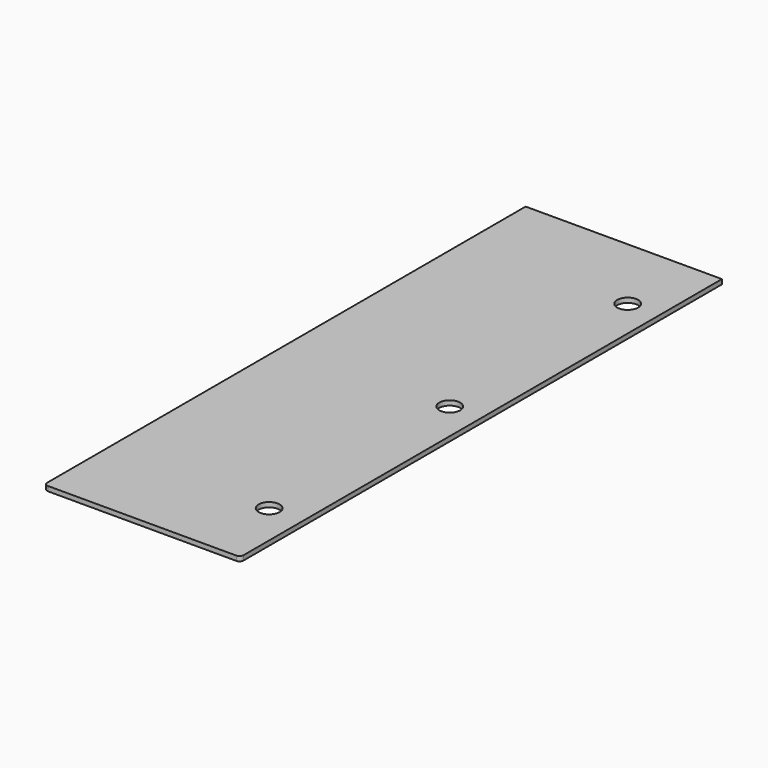
from build123d import *

# Parameters (mm, degrees)
F0_W     = 750
F0_H     = 2300
F1_DEPTH = 18
F2_R     = 15
F4_D     = 8
F4_DEPTH = 15
F4_TIP   = 2.4034424761
F5_R     = 40
F6_DEPTH = 18


with BuildPart() as f1:
    # F0 (on Top) → F1 (new body)
    with BuildSketch(Plane.XY):
        with Locations((375, -1150)):
            Rectangle(F0_W, F0_H)
    extrude(amount=F1_DEPTH)

    # F2
    f2_edges = [f1.edges().sort_by_distance(p)[0] for p in [
        (0, -2300, 9),
        (750, -2300, 9),
    ]]
    fillet(f2_edges, radius=F2_R)

    # F4
    with Locations(Plane(origin=(0, 0, 0), x_dir=(1, 0, 0), z_dir=(0, 0, -1))):
        with Locations((500, 100), (250, 100), (500, 2200), (500, 2100), (250, 2200), (250, 2100), (250, 1850), (500, 1850), (250, 1600), (500, 1600), (500, 1350), (250, 1350), (500, 1100), (250, 1100), (500, 850), (250, 850), (250, 600), (500, 600), (500, 350), (250, 350), (375, 100), (375, 350), (375, 600), (375, 850), (375, 1100), (375, 1350), (375, 1600), (375, 1850), (375, 2100), (643.933982822, 106.066017178), (467.1572875254, 282.8427124746), (639.5405845398, 2189.5405845398), (462.7638892432, 2012.7638892432)):
            Hole(F4_D / 2, depth=F4_DEPTH)
            with Locations((0, 0, -(F4_DEPTH + F4_TIP / 2))):  # 118° drill point
                Cone(0, F4_D / 2, F4_TIP, mode=Mode.SUBTRACT)

    # F5 (on face) → F6 (cut)
    with BuildSketch(Plane(origin=(0, 0, 0), x_dir=(1, 0, 0), z_dir=(0, 0, -1))):
        with Locations((630, 300)):
            Circle(F5_R)
        with Locations((620, 2000)):
            Circle(F5_R)
        with Locations((630, 1150)):
            Circle(F5_R)
    extrude(amount=-F6_DEPTH, mode=Mode.SUBTRACT)


solid = f1.part
